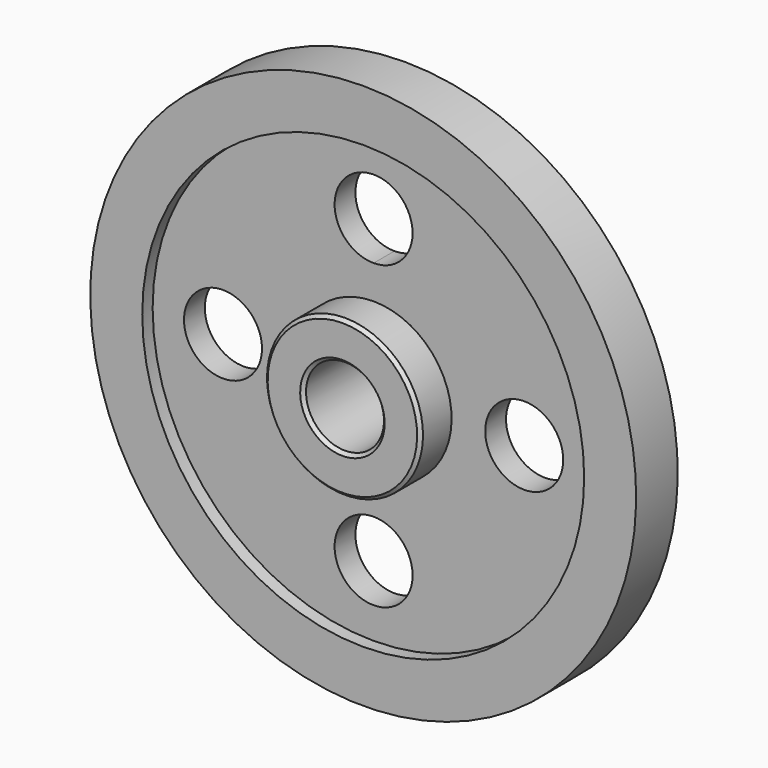
from build123d import *

# Parameters (mm, degrees)
F2_R     = 19.05
F3_DEPTH = 25.4
F4_SIZE  = 1.5875


with BuildPart() as f1:
    # F0 (on Right) → F1 (revolve)
    with BuildSketch(Plane.YZ):
        Polygon((-25.4, 19.05), (0, 19.05), (25.4, 19.05), (25.4, 38.1), (6.35, 38.1), (6.35, 107.95), (12.7, 107.95), (12.7, 133.35), (0, 133.35), (-12.7, 133.35), (-12.7, 107.95), (-6.35, 107.95), (-6.35, 38.1), (-25.4, 38.1), align=None)
    revolve(axis=Axis((0, 38.140107, 0), (0, 1, 0)))

    # F2 (on face) → F3 (cut)
    with BuildSketch(Plane.XZ.offset(6.35)):
        with Locations((73.57686, 0)):
            Circle(F2_R)
        with Locations((0, -73.57686)):
            Circle(F2_R)
        with Locations((-73.57686, 0)):
            Circle(F2_R)
        with BuildLine():
            ThreePointArc((19.05, 73.57686), (-13.470384, 87.047244), (0, 54.52686))
            ThreePointArc((0, 54.52686), (13.470384, 60.106476), (19.05, 73.57686))
        make_face()
    extrude(amount=-F3_DEPTH, mode=Mode.SUBTRACT)

    # F4
    f4_edges = [f1.edges().sort_by_distance(p)[0] for p in [
        (0, -25.4, -19.05),
        (0, -25.4, -38.1),
    ]]
    chamfer(f4_edges, length=F4_SIZE)


solid = f1.part
